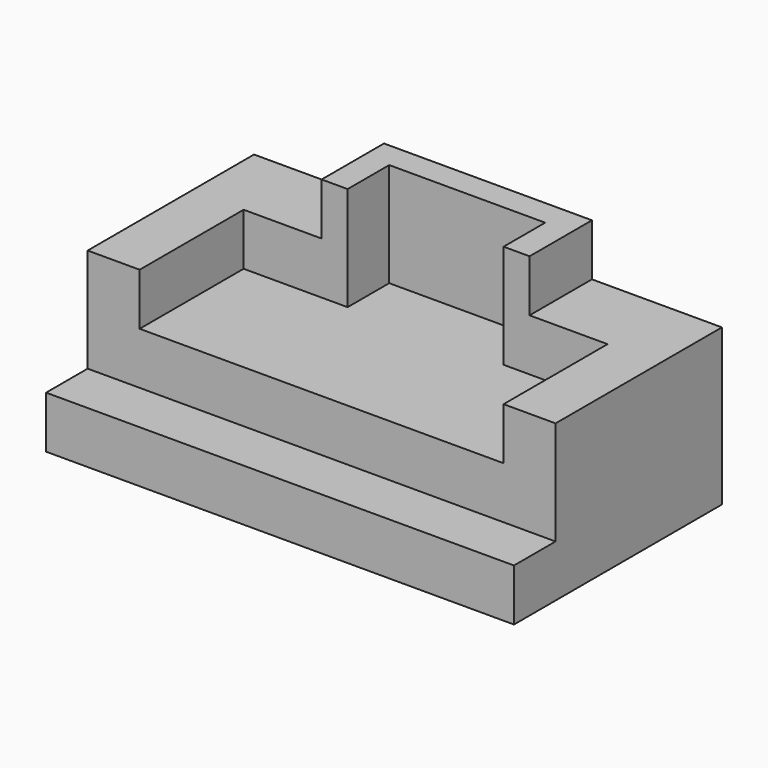
from build123d import *

# Parameters (mm, degrees)
F1_DEPTH = 114.3
F4_DEPTH = 12.7
F6_DEPTH = 12.7


with BuildPart() as f1:
    # F0 (on Right) → F1 (new body)
    with BuildSketch(Plane.YZ):
        Polygon((-32.3379626675, 12.7), (-32.3379626675, 0), (31.1620373325, 0), (31.1620373325, 25.4), (-19.6379626675, 25.4), (-19.6379626675, 12.7), align=None)
    extrude(amount=F1_DEPTH)

    # F3 (on offset) → F4 (join)
    with BuildSketch(Plane.XY.offset(25.4)):
        Polygon((114.3, -19.6379626675), (114.3, 31.1620373325), (0, 31.1620373325), (0, -19.6379626675), (12.7, -19.6379626675), (12.7, 12.1120373325), (38.1, 12.1120373325), (38.1, 24.8120373325), (76.2, 24.8120373325), (76.2, 12.1120373325), (101.6, 12.1120373325), (101.6, -19.6379626675), align=None)
    extrude(amount=F4_DEPTH)

    # F5 (on face) → F6 (join)
    with BuildSketch(Plane.XY.offset(38.1)):
        Polygon((82.55, 12.1120373325), (82.55, 31.1620373325), (31.75, 31.1620373325), (31.75, 12.1120373325), (38.1, 12.1120373325), (38.1, 24.8120373325), (76.2, 24.8120373325), (76.2, 12.1120373325), align=None)
    extrude(amount=F6_DEPTH)


solid = f1.part
